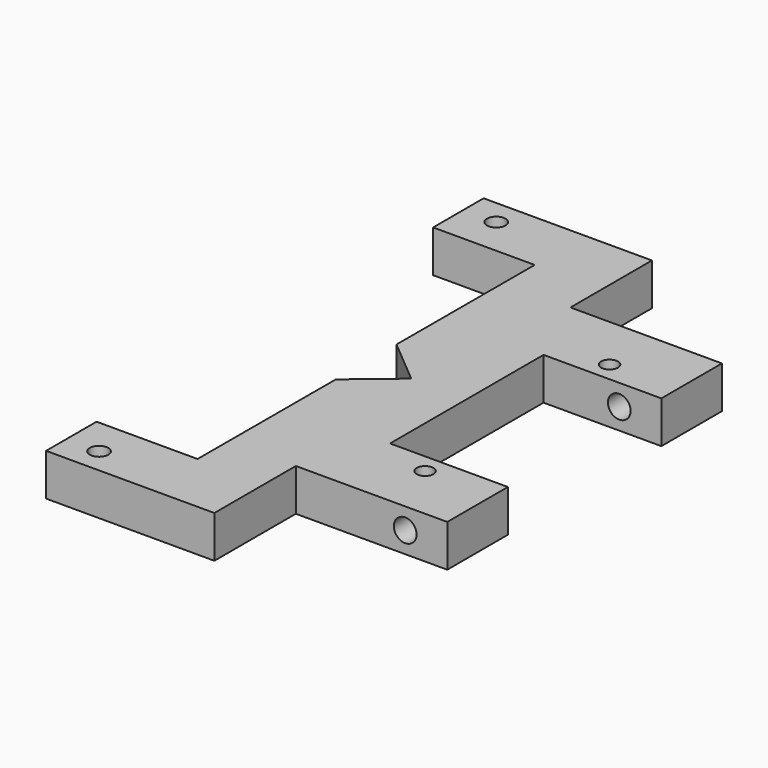
from build123d import *

# Parameters (mm, degrees)
F0_R     = 1
F1_DEPTH = 2.5
F3_DEPTH = 25
F6_DEPTH = 5
F7_R     = 1.1
F8_DEPTH = 5


with BuildPart() as f1:
    # F0 (on Top) → F1 (new body, symmetric)
    with BuildSketch(Plane.XY):
        Polygon((-7, -11.4), (-7, 11.4), (7, 11.4), (7, 20.4), (-11, 20.4), (-11, -20.4), (7, -20.4), (7, -11.4), align=None)
        with Locations((-1, -13.7)):
            Circle(F0_R, mode=Mode.SUBTRACT)
        with Locations((-1, 13.7)):
            Circle(F0_R, mode=Mode.SUBTRACT)
    extrude(amount=F1_DEPTH, both=True)

    # F2 (on Front) → F3 (cut, symmetric)
    with BuildSketch(Plane.XZ):
        with BuildLine():
            ThreePointArc((0.65, 0), (2, -1.35), (3.35, 0))
            ThreePointArc((3.35, 0), (2, 1.35), (0.65, 0))
        make_face()
    extrude(amount=F3_DEPTH, both=True, mode=Mode.SUBTRACT)

    # F5 (on offset) → F6 (join)
    with BuildSketch(Plane.XY.offset(2.5)):
        Polygon((-31, -25), (-31, -32.5), (-11, -32.5), (-11, 32.5), (-31, 32.5), (-31, 25), (-18.9318980411, 25), (-18.9598145062, 4.5039191309), (-13.6012034491, 0), (-18.9720636301, -4.4893051708), (-19, -25), align=None)
    extrude(amount=-F6_DEPTH)

    # F7 (on offset) → F8 (cut, through all)
    with BuildSketch(Plane.XY.offset(2.5)):
        with Locations((-27.1, 29.5)):
            Circle(F7_R)
        with Locations((-27.1, -29.5)):
            Circle(F7_R)
    extrude(amount=-F8_DEPTH, mode=Mode.SUBTRACT)


solid = f1.part
